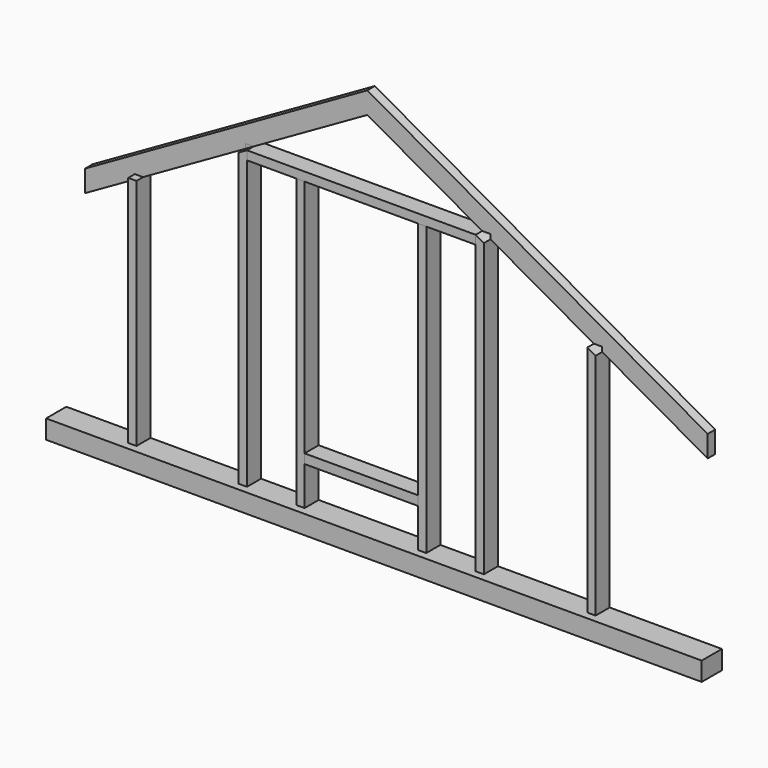
from build123d import *

# Parameters (mm, degrees)
F1_DEPTH = 50.8
F2_DEPTH = 95.25
F0_W     = 612.775
F0_H     = 50.8
F3_DEPTH = 95.25
F0_W_2   = 266.7
F0_H_2   = 1552.575
F4_DEPTH = 25.4
F0_H_3   = 1292.225
F5_DEPTH = 25.4
F6_DEPTH = 95.25
F7_DEPTH = 136.525
F8_DEPTH = 50.8


with BuildPart() as f1:
    # F0 (on Front) → F1 (new body)
    with BuildSketch(Plane.XZ):
        Polygon((-631.0804562256, -18.3131096094), (-586.6304562256, -18.3131096094), (27.6396495945, 331.2980676392), (27.6396495945, 448.2012418529), (-1496.5673157797, -419.299530993), (-1496.5673157797, -536.2027052067), (-1227.9804562256, -383.3367798222), (-1227.9804562256, -358.0381096094), (-1183.5304562256, -358.0381096094), (-631.0804562256, -43.6117798222), align=None)
        Polygon((27.6396495945, 331.2980676392), (648.4445437744, -18.3131096094), (692.8945437744, -18.3131096094), (692.8945437744, -43.3454780305), (1251.6945437744, -358.0381096094), (1296.1445437744, -358.0381096094), (1296.1445437744, -383.0704780305), (1866.2775707549, -704.1453932248), (1866.2775707549, -587.2422190111), (27.6396495945, 448.2012418529), align=None)
    extrude(amount=F1_DEPTH)

    # F0 (on Front) → F4 (cut)
    with BuildSketch(Plane.XZ):
        with Locations((-453.2804562256, -842.2256096094)):
            Rectangle(F0_W_2, F0_H_2)
    extrude(amount=-F4_DEPTH, mode=Mode.SUBTRACT)

    # F0 (on Front) → F5 (cut)
    with BuildSketch(Plane.XZ):
        with Locations((30.9070437744, -712.0506096094)):
            Rectangle(F0_W, F0_H_3)
    extrude(amount=-F5_DEPTH, mode=Mode.SUBTRACT)


with BuildPart() as f2:
    # F0 (on Front) → F2 (new body)
    with BuildSketch(Plane.XZ):
        Polygon((648.4445437744, -18.3131096094), (-586.6304562256, -18.3131096094), (-586.6304562256, -65.9381096094), (-319.9304562256, -65.9381096094), (-275.4804562256, -65.9381096094), (337.2945437744, -65.9381096094), (381.7445437744, -65.9381096094), (648.4445437744, -65.9381096094), align=None)
    extrude(amount=F2_DEPTH)


with BuildPart() as f3:
    # F0 (on Front) → F3 (new body)
    with BuildSketch(Plane.XZ):
        with Locations((30.9070437744, -1383.5631096094)):
            Rectangle(F0_W, F0_H)
    extrude(amount=F3_DEPTH)


with BuildPart() as f6:
    # F0 (on Front) → F6 (new body)
    with BuildSketch(Plane.XZ):
        Polygon((-1183.5304562256, -1618.5131096094), (-1183.5304562256, -358.0381096094), (-1227.9804562256, -383.3367798222), (-1227.9804562256, -1618.5131096094), align=None)
        Polygon((-1227.9804562256, -383.3367798222), (-1183.5304562256, -358.0381096094), (-1227.9804562256, -358.0381096094), align=None)
    extrude(amount=F6_DEPTH)


with BuildPart() as f6b:
    # F0 (on Front) → F6, piece 2 (new body)
    with BuildSketch(Plane.XZ):
        Polygon((-586.6304562256, -65.9381096094), (-586.6304562256, -18.3131096094), (-631.0804562256, -43.6117798222), (-631.0804562256, -1618.5131096094), (-586.6304562256, -1618.5131096094), align=None)
    extrude(amount=F6_DEPTH)


with BuildPart() as f6c:
    # F0 (on Front) → F6, piece 3 (new body)
    with BuildSketch(Plane.XZ):
        Polygon((-275.4804562256, -65.9381096094), (-319.9304562256, -65.9381096094), (-319.9304562256, -1618.5131096094), (-275.4804562256, -1618.5131096094), (-275.4804562256, -1408.9631096094), (-275.4804562256, -1358.1631096094), align=None)
    extrude(amount=F6_DEPTH)


with BuildPart() as f6d:
    # F0 (on Front) → F6, piece 4 (new body)
    with BuildSketch(Plane.XZ):
        Polygon((381.7445437744, -1618.5131096094), (381.7445437744, -65.9381096094), (337.2945437744, -65.9381096094), (337.2945437744, -1358.1631096094), (337.2945437744, -1408.9631096094), (337.2945437744, -1618.5131096094), align=None)
    extrude(amount=F6_DEPTH)


with BuildPart() as f6e:
    # F0 (on Front) → F6, piece 5 (new body)
    with BuildSketch(Plane.XZ):
        Polygon((692.8945437744, -43.3454780305), (648.4445437744, -18.3131096094), (648.4445437744, -65.9381096094), (648.4445437744, -1618.5131096094), (692.8945437744, -1618.5131096094), align=None)
    extrude(amount=F6_DEPTH)


with BuildPart() as f6f:
    # F0 (on Front) → F6, piece 6 (new body)
    with BuildSketch(Plane.XZ):
        Polygon((1296.1445437744, -383.0704780305), (1251.6945437744, -358.0381096094), (1251.6945437744, -1618.5131096094), (1296.1445437744, -1618.5131096094), align=None)
    extrude(amount=F6_DEPTH)


with BuildPart() as f7:
    # F0 (on Front) → F7 (new body)
    with BuildSketch(Plane.XZ):
        Polygon((-319.9304562256, -1618.5131096094), (-586.6304562256, -1618.5131096094), (-631.0804562256, -1618.5131096094), (-1183.5304562256, -1618.5131096094), (-1227.9804562256, -1618.5131096094), (-1638.6544704437, -1618.5131096094), (-1638.6544704437, -1720.1131096094), (1902.3425579071, -1720.1131096094), (1902.3425579071, -1618.5131096094), (1296.1445437744, -1618.5131096094), (1251.6945437744, -1618.5131096094), (692.8945437744, -1618.5131096094), (648.4445437744, -1618.5131096094), (381.7445437744, -1618.5131096094), (337.2945437744, -1618.5131096094), (-275.4804562256, -1618.5131096094), align=None)
    extrude(amount=F7_DEPTH)


with BuildPart() as f8:
    # F0 (on Front) → F8 (new body)
    with BuildSketch(Plane.XZ):
        Polygon((-631.0804562256, -43.6117798222), (-586.6304562256, -18.3131096094), (-631.0804562256, -18.3131096094), align=None)
    extrude(amount=F8_DEPTH)


solid = Compound([f1.part, f2.part, f3.part, f6.part, f6b.part, f6c.part, f6d.part, f6e.part, f6f.part, f7.part, f8.part])
